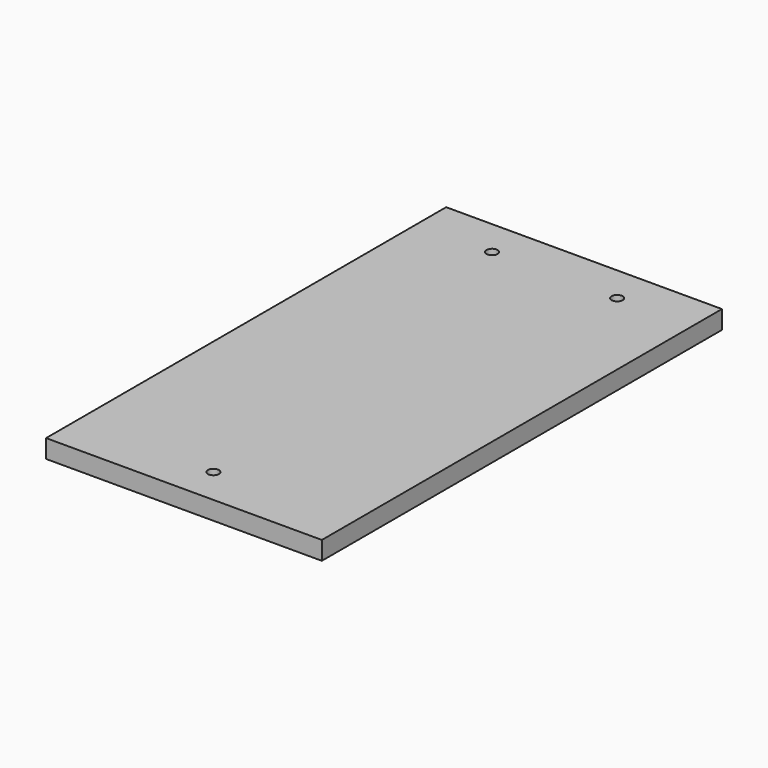
from build123d import *

# Parameters (mm, degrees)
SKETCH_W    = 150
SKETCH_H    = 272
PAD_DEPTH   = 10
SKETCH001_R = 3
HOLE_DEPTH  = 25


with BuildPart() as part:
    # Sketch → Pad (new body)
    with BuildSketch(Plane.XY):
        Rectangle(SKETCH_W, SKETCH_H)
    extrude(amount=PAD_DEPTH)

    # Sketch001 (on Face6 of Pad) → Hole (cut)
    with BuildSketch(Plane.XY.offset(10)):
        with Locations((0, -116)):
            Circle(SKETCH001_R)
        with Locations((-34, 116)):
            Circle(SKETCH001_R)
        with Locations((34, 116)):
            Circle(SKETCH001_R)
    extrude(amount=-HOLE_DEPTH, mode=Mode.SUBTRACT)


solid = part.part
